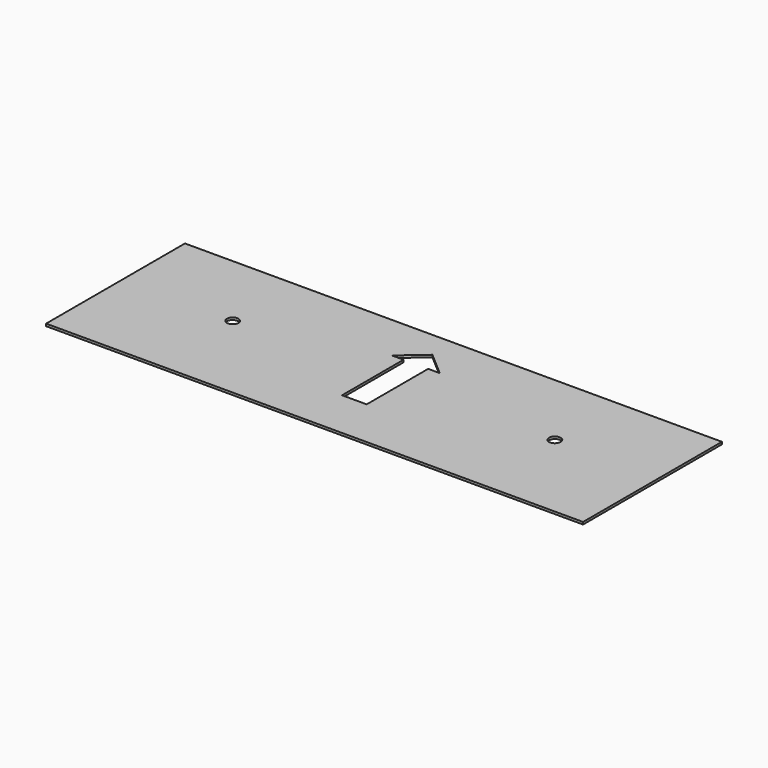
from build123d import *

# Parameters (mm, degrees)
SKETCH_W     = 232
SKETCH_H     = 75
PAD_DEPTH    = 1
SKETCH001_R  = 2.5
POCKET_DEPTH = 5


with BuildPart() as part:
    # Sketch → Pad (new body)
    with BuildSketch(Plane.XY):
        Rectangle(SKETCH_W, SKETCH_H)
    extrude(amount=PAD_DEPTH)

    # Sketch001 (on Face6 of Pad) → Pocket (cut)
    with BuildSketch(Plane.XY.offset(1)):
        with Locations((-68.1, 3.4)):
            Circle(SKETCH001_R)
        with Locations((71.1, 3.4)):
            Circle(SKETCH001_R)
        Polygon((-5.320624, -16.015108), (-5.320624, 17.20542), (-10.320624, 17.20542), (0, 26.156277), (10.320624, 17.20542), (5.320624, 17.20542), (5.320624, -16.015108), align=None)
    extrude(amount=-POCKET_DEPTH, mode=Mode.SUBTRACT)


solid = part.part
